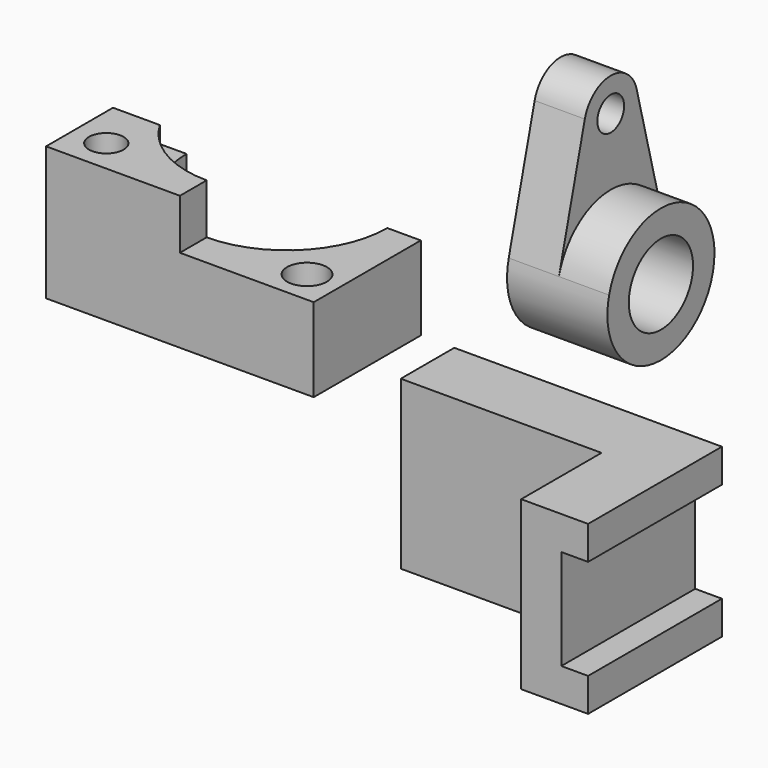
from build123d import *

# Parameters (mm, degrees)
F0_W     = 60
F0_H     = 50
F1_DEPTH = 20
F2_DEPTH = 50
F3_R     = 12
F4_DEPTH = 30
F3_R_2   = 5
F5_DEPTH = 15
F6_R     = 5.1774558674
F6_R_2   = 5.9420738314
F7_DEPTH = 40
F8_R     = 5.9420738314
F9_DEPTH = 15


with BuildPart() as f1:
    # F0 (on Front) → F1 (new body)
    with BuildSketch(Plane.XZ):
        with Locations((30, -25)):
            Rectangle(F0_W, F0_H)
    extrude(amount=F1_DEPTH)

    # F0 (on Front) → F2 (join)
    with BuildSketch(Plane.XZ):
        Polygon((80, 0), (60, 0), (60, -50), (80, -50), (80, -40), (72, -40), (72, -10), (80, -10), align=None)
    extrude(amount=F2_DEPTH)


with BuildPart() as f4:
    # F3 (on Right) → F4 (new body)
    with BuildSketch(Plane.YZ):
        with BuildLine():
            ThreePointArc((20.3417120386, 15.3567687949), (37.18654292, -9.4838251305), (59.7066287696, 10.3567687949))
            ThreePointArc((59.7066287696, 10.3567687949), (59.547222695, 12.8768546445), (59.0715455007, 15.3567687949))
            ThreePointArc((59.0715455007, 15.3567687949), (39.7066287696, 30.3567687949), (20.3417120386, 15.3567687949))
        make_face()
        with Locations((39.7066287696, 10.3567687949)):
            Circle(F3_R, mode=Mode.SUBTRACT)
    extrude(amount=F4_DEPTH)

    # F3 (on Right) → F5 (join)
    with BuildSketch(Plane.YZ):
        with BuildLine():
            ThreePointArc((20.3417120386, 15.3567687949), (39.7066287696, 30.3567687949), (59.0715455007, 15.3567687949))
            Line((59.0715455007, 15.3567687949), (49.3890871352, 52.8567687949))
            ThreePointArc((49.3890871352, 52.8567687949), (39.7066287696, 60.3567687949), (30.0241704041, 52.8567687949))
            Line((30.0241704041, 52.8567687949), (20.3417120386, 15.3567687949))
        make_face()
        with Locations((39.7066287696, 50.3567687949)):
            Circle(F3_R_2, mode=Mode.SUBTRACT)
    extrude(amount=F5_DEPTH)


with BuildPart() as f7:
    # F6 (on Top) → F7 (new body)
    with BuildSketch(Plane.XY):
        with BuildLine():
            Line((-80.0161100341, 0), (-90.0161100341, 0))
            Line((-90.0161100341, 0), (-90.0161100341, -40))
            Line((-90.0161100341, -40), (-10.0161100341, -40))
            Line((-10.0161100341, -40), (-10.0161100341, 0))
            Line((-10.0161100341, 0), (-20.0161100341, 0))
            ThreePointArc((-20.0161100341, 0), (-50.0161100341, -30), (-80.0161100341, 0))
        make_face()
        with Locations((-80.0161100341, -30)):
            Circle(F6_R, mode=Mode.SUBTRACT)
        with Locations((-20.0161100341, -30)):
            Circle(F6_R_2, mode=Mode.SUBTRACT)
    extrude(amount=F7_DEPTH)

    # F8 (on face) → F9 (cut)
    with BuildSketch(Plane.XY.offset(40)):
        with BuildLine():
            Line((-90.0161100341, 0), (-90.0161100341, -15))
            Line((-90.0161100341, -15), (-75.9968721476, -15))
            ThreePointArc((-75.9968721476, -15), (-78.9938848227, -7.7645713531), (-80.0161100341, 0))
            Line((-80.0161100341, 0), (-90.0161100341, 0))
        make_face()
        with BuildLine():
            ThreePointArc((-20.0161100341, 0), (-28.8029065985, -21.2132034356), (-50.0161100341, -30))
            Line((-50.0161100341, -30), (-50.0161100341, -40))
            Line((-50.0161100341, -40), (-10.0161100341, -40))
            Line((-10.0161100341, -40), (-10.0161100341, 0))
            Line((-10.0161100341, 0), (-20.0161100341, 0))
        make_face()
        with Locations((-20.0161100341, -30)):
            Circle(F8_R, mode=Mode.SUBTRACT)
    extrude(amount=-F9_DEPTH, mode=Mode.SUBTRACT)


solid = Compound([f1.part, f4.part, f7.part])
